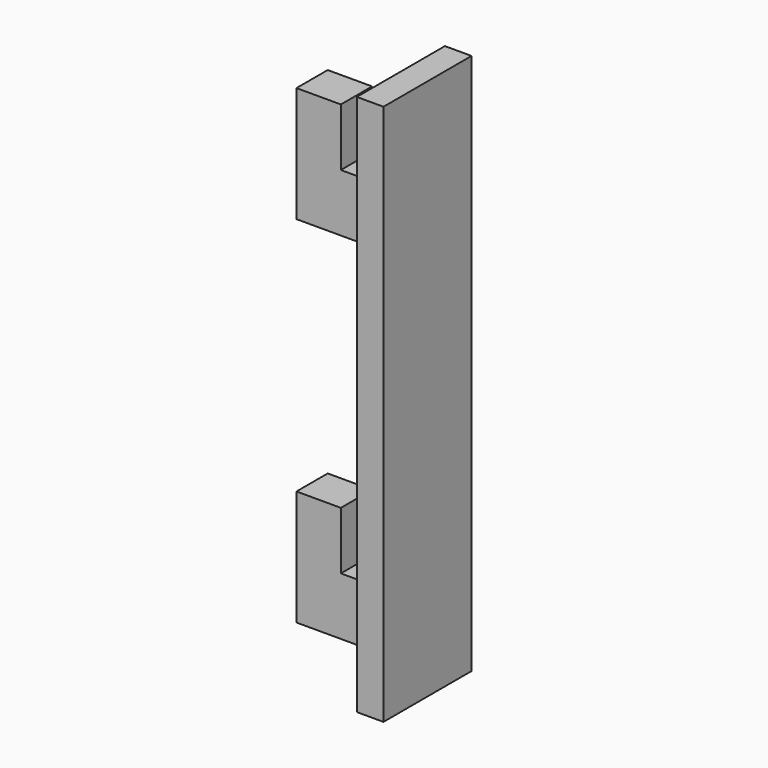
from build123d import *

# Parameters (mm, degrees)
PAD_DEPTH         = 4.4
SKETCH001_W       = 3
SKETCH001_H       = 61
PAD001_DEPTH      = 4
PAD001_DEPTH_BACK = 8.4


with BuildPart() as part:
    # Sketch → Pad (new body)
    with BuildSketch(Plane.XZ):
        Polygon((-3, -30.5), (-3, -26.5), (-13, -26.5), (-13, -13.5), (-8, -13.5), (-8, -20), (-3, -20), (-3, 13.5), (-13, 13.5), (-13, 26.5), (-8, 26.5), (-8, 20), (-3, 20), (-3, 30.5), (0, 30.5), (0, -30.5), align=None)
    extrude(amount=PAD_DEPTH)

    # Sketch001 (on Face18 of Pad) → Pad001 (join, two sides)
    with BuildSketch(Plane.XZ.offset(4.4)) as pad001_sk:
        with Locations((-1.5, 0)):
            Rectangle(SKETCH001_W, SKETCH001_H)
    extrude(amount=PAD001_DEPTH)
    extrude(pad001_sk.sketch, amount=-PAD001_DEPTH_BACK)


solid = part.part
